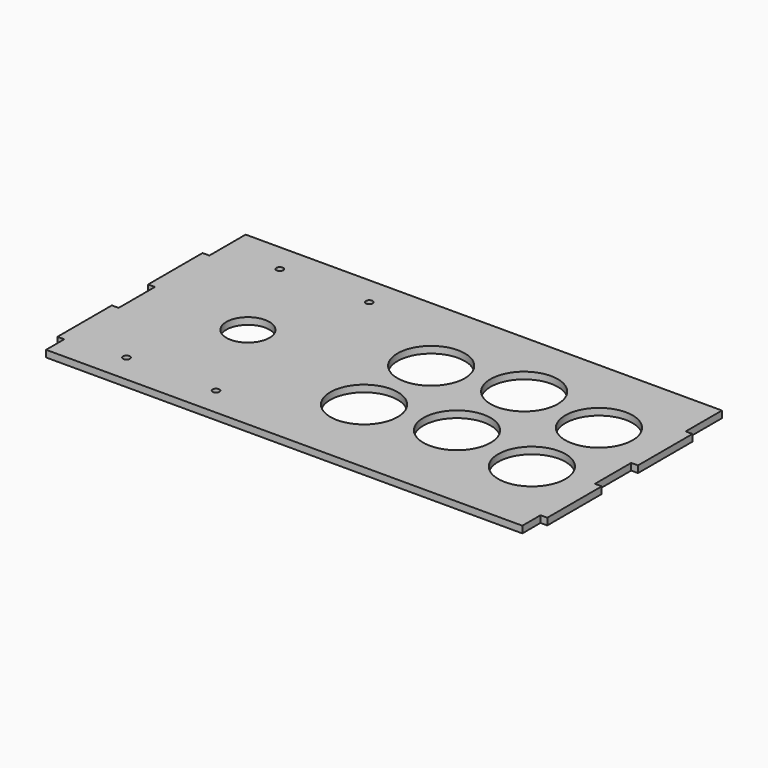
from build123d import *

# Parameters (mm, degrees)
F0_R     = 1.5
F0_R_2   = 14.85
F0_R_3   = 9.5
F0_W     = 3
F0_H     = 30
F1_DEPTH = 3


with BuildPart() as f1:
    # F0 (on Top) → F1 (new body)
    with BuildSketch(Plane.XY):
        Polygon((105, 55), (-105, 55), (-105, 35), (-105, 5), (-105, -15), (-105, -45), (-105, -55), (105, -55), (105, -45), (105, -15), (105, 5), (105, 35), align=None)
        with Locations((-79.75, -42.25)):
            Circle(F0_R, mode=Mode.SUBTRACT)
        with Locations((-40.25, -42.25)):
            Circle(F0_R, mode=Mode.SUBTRACT)
        with Locations((6, -18.5)):
            Circle(F0_R_2, mode=Mode.SUBTRACT)
        with Locations((43, -13.5)):
            Circle(F0_R_2, mode=Mode.SUBTRACT)
        with Locations((80, -18.5)):
            Circle(F0_R_2, mode=Mode.SUBTRACT)
        with Locations((-60, 0)):
            Circle(F0_R_3, mode=Mode.SUBTRACT)
        with Locations((-79.75, 42.25)):
            Circle(F0_R, mode=Mode.SUBTRACT)
        with Locations((-40.25, 42.25)):
            Circle(F0_R, mode=Mode.SUBTRACT)
        with Locations((6, 18.5)):
            Circle(F0_R_2, mode=Mode.SUBTRACT)
        with Locations((43, 23.5)):
            Circle(F0_R_2, mode=Mode.SUBTRACT)
        with Locations((80, 18.5)):
            Circle(F0_R_2, mode=Mode.SUBTRACT)
        with Locations((-106.5, 20)):
            Rectangle(F0_W, F0_H)
        with Locations((106.5, 20)):
            Rectangle(F0_W, F0_H)
        with Locations((-106.5, -30)):
            Rectangle(F0_W, F0_H)
        with Locations((106.5, -30)):
            Rectangle(F0_W, F0_H)
    extrude(amount=F1_DEPTH)


solid = f1.part
